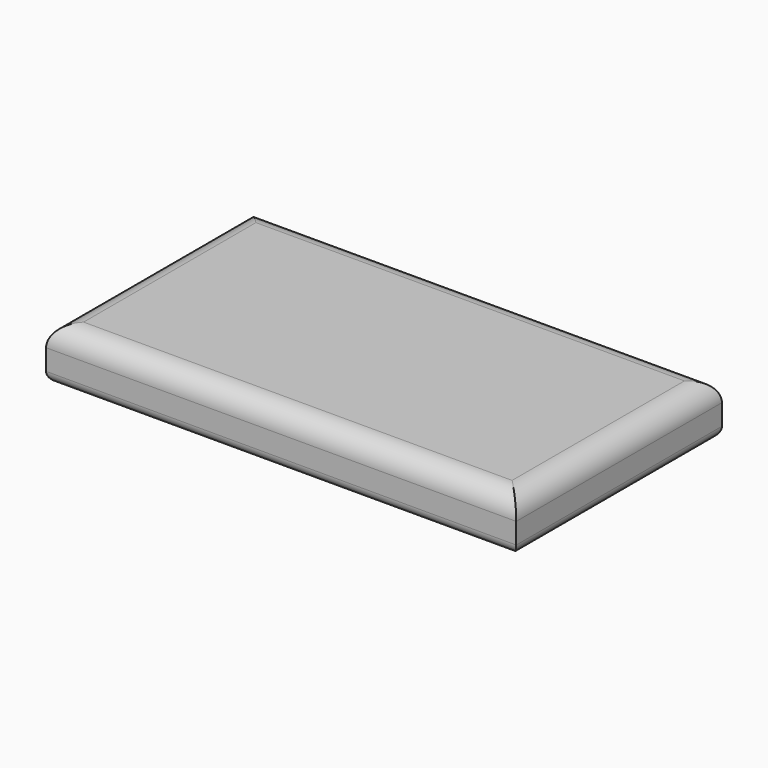
from build123d import *

# Parameters (mm, degrees)
F0_W     = 229.429774
F0_H     = 125.460326
F1_DEPTH = 25.4
F2_R     = 10.16
F3_R     = 5.08


with BuildPart() as f1:
    # F0 (on Top) → F1 (new body)
    with BuildSketch(Plane.XY):
        with Locations((3.485013, -7.405646)):
            Rectangle(F0_W, F0_H)
    extrude(amount=F1_DEPTH)

    # F2
    f2_edges = [f1.edges().sort_by_distance(p)[0] for p in [
        (3.485013, 55.324517, 25.4),
        (-111.229874, -7.405646, 25.4),
        (3.485013, -70.135809, 25.4),
        (118.1999, -7.405646, 25.4),
    ]]
    fillet(f2_edges, radius=F2_R)

    # F3
    f3_edges = [f1.edges().sort_by_distance(p)[0] for p in [
        (3.485013, 55.324517, 0),
        (-111.229874, -7.405646, 0),
        (3.485013, -70.135809, 0),
        (118.1999, -7.405646, 0),
    ]]
    fillet(f3_edges, radius=F3_R)


solid = f1.part
